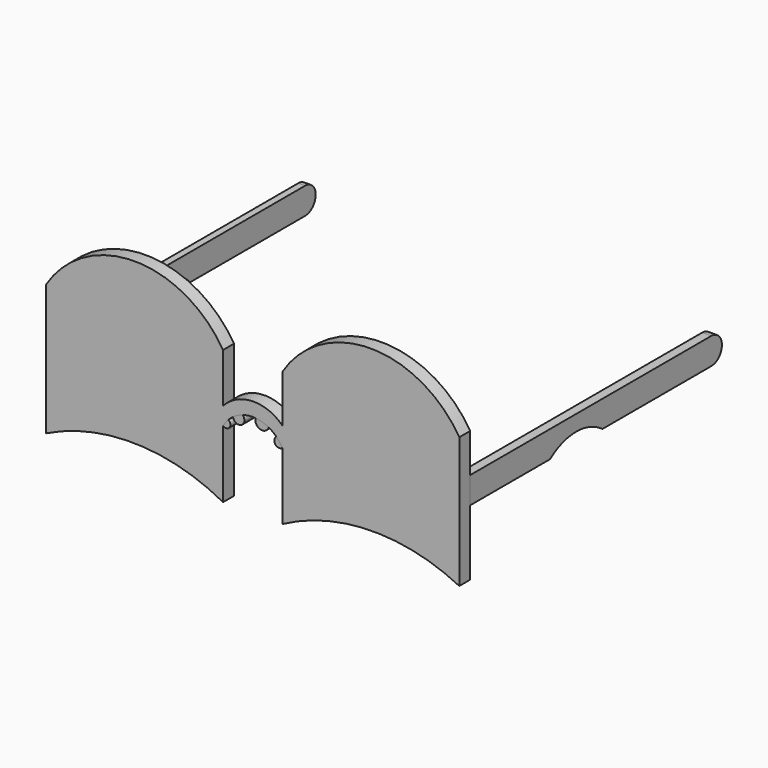
from build123d import *

# Parameters (mm, degrees)
F1_DEPTH = 3.81
F3_DEPTH = 2.54
F5_DEPTH = 1.905
F7_DEPTH = 3.7465


with BuildPart() as f1:
    # F0 (on Front) → F1 (new body)
    with BuildSketch(Plane.XZ):
        with BuildLine():
            ThreePointArc((-68.8856169581, 10.4112839326), (-44.1081304529, 15.9905487889), (-19.5389837027, 9.555561468))
            Line((-19.5389837027, 9.555561468), (-19.5389837027, 28.2388245687))
            Line((-19.5389837027, 28.2388245687), (-19.5389837027, 33.2089811563))
            Line((-19.5389837027, 33.2089811563), (-19.5389837027, 46.9220876694))
            ThreePointArc((-19.5389837027, 46.9220876694), (-44.2123003304, 60.6937658633), (-68.8856169581, 46.9220876694))
            Line((-68.8856169581, 46.9220876694), (-68.8856169581, 10.4112839326))
        make_face()
        with BuildLine():
            Line((-19.5389837027, 33.2089811563), (-19.5389837027, 28.2388245687))
            ThreePointArc((-19.5389837027, 28.2388245687), (-11.2850265577, 33.181026292), (-3.0310694128, 28.2388245687))
            Line((-3.0310694128, 28.2388245687), (-3.0310694128, 33.7874628603))
            ThreePointArc((-3.0310694128, 33.7874628603), (-11.4080671733, 37.0093856655), (-19.5389837027, 33.2089811563))
        make_face()
        with BuildLine():
            Line((-3.0310694128, 33.7874628603), (-3.0310694128, 28.2388245687))
            Line((-3.0310694128, 28.2388245687), (-3.0310694128, 9.555561468))
            ThreePointArc((-3.0310694128, 9.555561468), (21.5380773374, 15.9905487889), (46.3155638427, 10.4112839326))
            Line((46.3155638427, 10.4112839326), (46.3155638427, 46.9220876694))
            ThreePointArc((46.3155638427, 46.9220876694), (21.6422472149, 60.6937658633), (-3.0310694128, 46.9220876694))
            Line((-3.0310694128, 46.9220876694), (-3.0310694128, 33.7874628603))
        make_face()
    extrude(amount=F1_DEPTH)

    # F4 (on face) → F5 (join)
    with BuildSketch(Plane(origin=(-68.8856169581, 0, 0), x_dir=(0, -1, 0), z_dir=(-1, 0, 0))):
        with BuildLine():
            Line((0, 28.666685801), (0, 36.0773615539))
            Line((0, 36.0773615539), (-84.0607136488, 36.0773615539))
            ThreePointArc((-84.0607136488, 36.0773615539), (-87.7660515253, 32.3720236775), (-84.0607136488, 28.666685801))
            Line((-84.0607136488, 28.666685801), (-43.9497493207, 28.666685801))
            ThreePointArc((-43.9497493207, 28.666685801), (-35.7344048098, 32.5721302641), (-27.5190602988, 28.666685801))
            Line((-27.5190602988, 28.666685801), (0, 28.666685801))
        make_face()
    extrude(amount=-F5_DEPTH)

    # F6 (on face) → F7 (join)
    with BuildSketch(Plane(origin=(0, 0, 0), x_dir=(-1, 0, 0), z_dir=(0, 1, 0))):
        with BuildLine():
            ThreePointArc((10.4850491791, 33.1467905871), (8.6264920964, 32.795687018), (6.8764129189, 32.0782394464))
            ThreePointArc((6.8764129189, 32.0782394464), (9.2302432397, 30.7567408368), (10.4850491791, 33.1467905871))
        make_face()
        with BuildLine():
            ThreePointArc((4.6847159658, 30.4591629776), (3.7753798842, 29.4104470252), (3.0310694128, 28.2388245687))
            ThreePointArc((3.0310694128, 28.2388245687), (5.0505286179, 28.4607515645), (4.6847159658, 30.4591629776))
        make_face()
        with BuildLine():
            ThreePointArc((16.8159558735, 31.3729320461), (15.5501344197, 32.1532387716), (14.1767474713, 32.7233184401))
            ThreePointArc((14.1767474713, 32.7233184401), (14.5086800909, 30.117810225), (16.8159558735, 31.3729320461))
        make_face()
        with BuildLine():
            ThreePointArc((19.5389837027, 28.2388245687), (18.9011472937, 29.2645692329), (18.1365737962, 30.1996707075))
            ThreePointArc((18.1365737962, 30.1996707075), (17.770603097, 28.4559966735), (19.5389837027, 28.2388245687))
        make_face()
    extrude(amount=-F7_DEPTH)


with BuildPart() as f3:
    # F2 (on face) → F3 (new body)
    with BuildSketch(Plane.YZ.offset(46.3155638427)):
        with BuildLine():
            Line((27.8109610081, 36.0829420388), (0, 36.0829420388))
            Line((0, 36.0829420388), (0, 28.666685801))
            Line((0, 28.666685801), (27.8109610081, 28.666685801))
            ThreePointArc((27.8109610081, 28.666685801), (36.9386617094, 31.7302999676), (46.0663624108, 28.666685801))
            Line((46.0663624108, 28.666685801), (84.0033665299, 28.666685801))
            ThreePointArc((84.0033665299, 28.666685801), (87.7114946488, 32.3748139199), (84.0033665299, 36.0829420388))
            Line((84.0033665299, 36.0829420388), (27.8109610081, 36.0829420388))
        make_face()
    extrude(amount=-F3_DEPTH)


solid = Compound([f1.part, f3.part])
